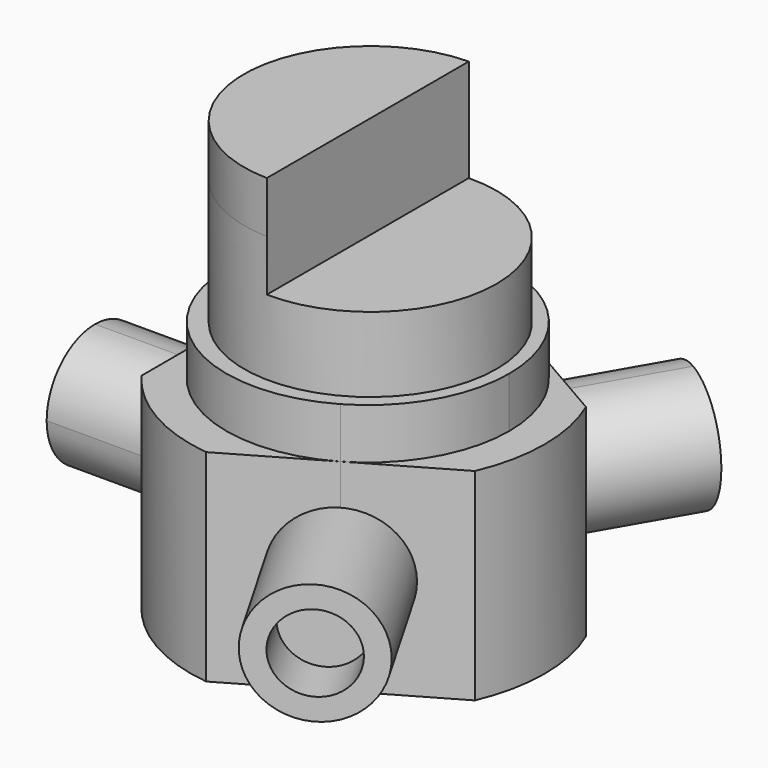
from build123d import *

# Parameters (mm, degrees)
F1_DEPTH  = 19.9898
F0_R      = 12.4968
F2_DEPTH  = 24.9936
F3_DEPTH  = 37.4904
F5_DEPTH  = 13.0048
F6_R      = 5.9817
F6_R_2    = 3.81
F7_DEPTH  = 13.0048
F8_DEPTH  = 7.9248
F9_DEPTH  = 7.9248
F11_DEPTH = 13.0048
F12_DEPTH = 7.9248
F14_DEPTH = 5.08
F15_DEPTH = 5.08


with BuildPart() as f1:
    # F0 (on Top) → F1 (new body)
    with BuildSketch(Plane.XY):
        with BuildLine():
            Line((-13.9974531313, 2.8e-09), (-13.9974531313, -10.5029))
            Line((-13.9974531313, -10.5029), (-2.0970516478, -17.3736))
            Line((-2.0970516478, -17.3736), (6.9987264714, -12.1221500544))
            ThreePointArc((6.9987264714, -12.1221500544), (-6.998726614, -12.1221499721), (-13.9974531313, 2.8e-09))
        make_face()
        with BuildLine():
            Line((-2.0970516478, -17.3736), (-13.9974531313, -10.5029))
            ThreePointArc((-13.9974531313, -10.5029), (-8.7599408106, -15.1726625552), (-2.0970516478, -17.3736))
        make_face()
    extrude(amount=F1_DEPTH)


with BuildPart() as f1b:
    # F0 (on Top) → F1, piece 2 (new body)
    with BuildSketch(Plane.XY):
        with BuildLine():
            ThreePointArc((-2.0970516478, 17.3736), (-8.7599408106, 15.1726625552), (-13.9974531313, 10.5029))
            Line((-13.9974531313, 10.5029), (-2.0970516478, 17.3736))
        make_face()
        with BuildLine():
            Line((-13.9974531313, 10.5029), (-13.9974531313, 2.8e-09))
            ThreePointArc((-13.9974531313, 2.8e-09), (-6.9987265569, 12.1221500051), (6.9987265808, 12.1221499913))
            Line((6.9987265808, 12.1221499913), (-2.0970516478, 17.3736))
            Line((-2.0970516478, 17.3736), (-13.9974531313, 10.5029))
        make_face()
    extrude(amount=F1_DEPTH)


with BuildPart() as f1c:
    # F0 (on Top) → F1, piece 3 (new body)
    with BuildSketch(Plane.XY):
        with BuildLine():
            Line((16.0945047791, 6.8707), (6.9987265808, 12.1221499913))
            ThreePointArc((6.9987265808, 12.1221499913), (12.1221500044, 6.9987265581), (13.9974531313, 0))
            ThreePointArc((13.9974531313, 0), (12.1221499728, -6.9987266128), (6.9987264714, -12.1221500544))
            Line((6.9987264714, -12.1221500544), (16.0945047791, -6.8707))
            Line((16.0945047791, -6.8707), (16.0945047791, 6.8707))
        make_face()
        with BuildLine():
            ThreePointArc((16.0945047791, -6.8707), (17.5198816211, 0), (16.0945047791, 6.8707))
            Line((16.0945047791, 6.8707), (16.0945047791, -6.8707))
        make_face()
    extrude(amount=F1_DEPTH)


with BuildPart() as f2:
    # F0 (on Top) → F2 (new body)
    with BuildSketch(Plane.XY):
        with BuildLine():
            ThreePointArc((6.9987265808, 12.1221499913), (-6.9987265569, 12.1221500051), (-13.9974531313, 2.8e-09))
            ThreePointArc((-13.9974531313, 2.8e-09), (-6.998726614, -12.1221499721), (6.9987264714, -12.1221500544))
            ThreePointArc((6.9987264714, -12.1221500544), (12.1221499728, -6.9987266128), (13.9974531313, 0))
            ThreePointArc((13.9974531313, 0), (12.1221500044, 6.9987265581), (6.9987265808, 12.1221499913))
        make_face()
        with Locations((0.2478816211, 0)):
            Circle(F0_R, mode=Mode.SUBTRACT)
    extrude(amount=F2_DEPTH)

    # F0 (on Top) → F3 (join)
    with BuildSketch(Plane.XY):
        with Locations((0.2478816211, 0)):
            Circle(F0_R)
    extrude(amount=F3_DEPTH)

    # F13 (on face) → F14 (join)
    with BuildSketch(Plane.XY.offset(37.4904)):
        with BuildLine():
            ThreePointArc((0, 12.4943413168), (-12.2489183789, 0), (0, -12.4943413168))
            Line((0, -12.4943413168), (0, 12.4943413168))
        make_face()
    extrude(amount=F14_DEPTH)

    # F15 (cut): a face of the model
    f15_faces = [f2.faces().sort_by_distance(p)[0] for p in [
        (5.4179933027, 0, 37.4904),
    ]]
    extrude(f15_faces, amount=-F15_DEPTH, mode=Mode.SUBTRACT)


with BuildPart() as f5:
    # F4 (on face) → F5 (new body)
    with BuildSketch(Plane(origin=(-13.9974531313, 0, 0), x_dir=(0, -1, 0), z_dir=(-1, 0, 0))):
        with BuildLine():
            Line((-2.8e-09, 13.8049), (-2.8e-09, 15.9766))
            ThreePointArc((-2.8e-09, 15.9766), (-5.9817, 9.9949), (-2.8e-09, 4.0132))
            Line((-2.8e-09, 4.0132), (-2.8e-09, 6.1849))
            ThreePointArc((-2.8e-09, 6.1849), (-3.81, 9.9949), (-2.8e-09, 13.8049))
        make_face()
        with BuildLine():
            ThreePointArc((-2.8e-09, 4.0132), (4.229700632, 5.765199366), (5.9817, 9.9949))
            ThreePointArc((5.9817, 9.9949), (4.229700632, 14.224600634), (-2.8e-09, 15.9766))
            Line((-2.8e-09, 15.9766), (-2.8e-09, 13.8049))
            ThreePointArc((-2.8e-09, 13.8049), (2.6940768353, 12.6889768373), (3.81, 9.9949))
            ThreePointArc((3.81, 9.9949), (2.6940768353, 7.3008231627), (-2.8e-09, 6.1849))
            Line((-2.8e-09, 6.1849), (-2.8e-09, 4.0132))
        make_face()
    extrude(amount=F5_DEPTH)


with BuildPart() as f7:
    # F6 (on face) → F7 (new body)
    with BuildSketch(Plane(origin=(6.9987265657, -12.12215, 0), x_dir=(0.8660254038, 0.5, 0), z_dir=(0.5, -0.8660254038, 0))):
        with Locations((0, 9.9949)):
            Circle(F6_R)
        with Locations((0, 9.9949)):
            Circle(F6_R_2, mode=Mode.SUBTRACT)
    extrude(amount=F7_DEPTH)


with BuildPart() as f8:
    # F4 (on face) → F8 (new body)
    with BuildSketch(Plane(origin=(-13.9974531313, 0, 0), x_dir=(0, -1, 0), z_dir=(-1, 0, 0))):
        with BuildLine():
            ThreePointArc((3.81, 9.9949), (2.6940768353, 12.6889768373), (-2.8e-09, 13.8049))
            Line((-2.8e-09, 13.8049), (-2.8e-09, 6.1849))
            ThreePointArc((-2.8e-09, 6.1849), (2.6940768353, 7.3008231627), (3.81, 9.9949))
        make_face()
        with BuildLine():
            Line((-2.8e-09, 6.1849), (-2.8e-09, 13.8049))
            ThreePointArc((-2.8e-09, 13.8049), (-3.81, 9.9949), (-2.8e-09, 6.1849))
        make_face()
    extrude(amount=F8_DEPTH)


with BuildPart() as f9:
    # F6 (on face) → F9 (new body)
    with BuildSketch(Plane(origin=(6.9987265657, -12.12215, 0), x_dir=(0.8660254038, 0.5, 0), z_dir=(0.5, -0.8660254038, 0))):
        with BuildLine():
            ThreePointArc((3.81, 9.9949), (2.6940767978, 12.6889768748), (-1.088e-07, 13.8049))
            Line((-1.088e-07, 13.8049), (-1.088e-07, 6.1849))
            ThreePointArc((-1.088e-07, 6.1849), (2.6940767978, 7.3008231252), (3.81, 9.9949))
        make_face()
        with BuildLine():
            Line((-1.088e-07, 6.1849), (-1.088e-07, 13.8049))
            ThreePointArc((-1.088e-07, 13.8049), (-3.81, 9.9949), (-1.088e-07, 6.1849))
        make_face()
    extrude(amount=F9_DEPTH)


with BuildPart() as f11:
    # F10 (on face) → F11 (new body)
    with BuildSketch(Plane(origin=(6.9987265657, 12.12215, 0), x_dir=(-0.8660254038, 0.5, 0), z_dir=(0.5, 0.8660254038, 0))):
        with BuildLine():
            ThreePointArc((-1.74e-08, 4.0132), (4.2297006269, 5.7651993608), (5.9817, 9.9949))
            ThreePointArc((5.9817, 9.9949), (4.2297006269, 14.2246006392), (-1.74e-08, 15.9766))
            Line((-1.74e-08, 15.9766), (-1.74e-08, 13.8049))
            ThreePointArc((-1.74e-08, 13.8049), (2.6940768302, 12.6889768425), (3.81, 9.9949))
            ThreePointArc((3.81, 9.9949), (2.6940768302, 7.3008231575), (-1.74e-08, 6.1849))
            Line((-1.74e-08, 6.1849), (-1.74e-08, 4.0132))
        make_face()
        with BuildLine():
            Line((-1.74e-08, 13.8049), (-1.74e-08, 15.9766))
            ThreePointArc((-1.74e-08, 15.9766), (-5.9817, 9.9949), (-1.74e-08, 4.0132))
            Line((-1.74e-08, 4.0132), (-1.74e-08, 6.1849))
            ThreePointArc((-1.74e-08, 6.1849), (-3.81, 9.9949), (-1.74e-08, 13.8049))
        make_face()
    extrude(amount=F11_DEPTH)


with BuildPart() as f12:
    # F10 (on face) → F12 (new body)
    with BuildSketch(Plane(origin=(6.9987265657, 12.12215, 0), x_dir=(-0.8660254038, 0.5, 0), z_dir=(0.5, 0.8660254038, 0))):
        with BuildLine():
            Line((-1.74e-08, 6.1849), (-1.74e-08, 13.8049))
            ThreePointArc((-1.74e-08, 13.8049), (-3.81, 9.9949), (-1.74e-08, 6.1849))
        make_face()
        with BuildLine():
            ThreePointArc((3.81, 9.9949), (2.6940768302, 12.6889768425), (-1.74e-08, 13.8049))
            Line((-1.74e-08, 13.8049), (-1.74e-08, 6.1849))
            ThreePointArc((-1.74e-08, 6.1849), (2.6940768302, 7.3008231575), (3.81, 9.9949))
        make_face()
    extrude(amount=F12_DEPTH)


solid = Compound([f1.part, f1b.part, f1c.part, f2.part, f5.part, f7.part, f8.part, f9.part, f11.part, f12.part])
